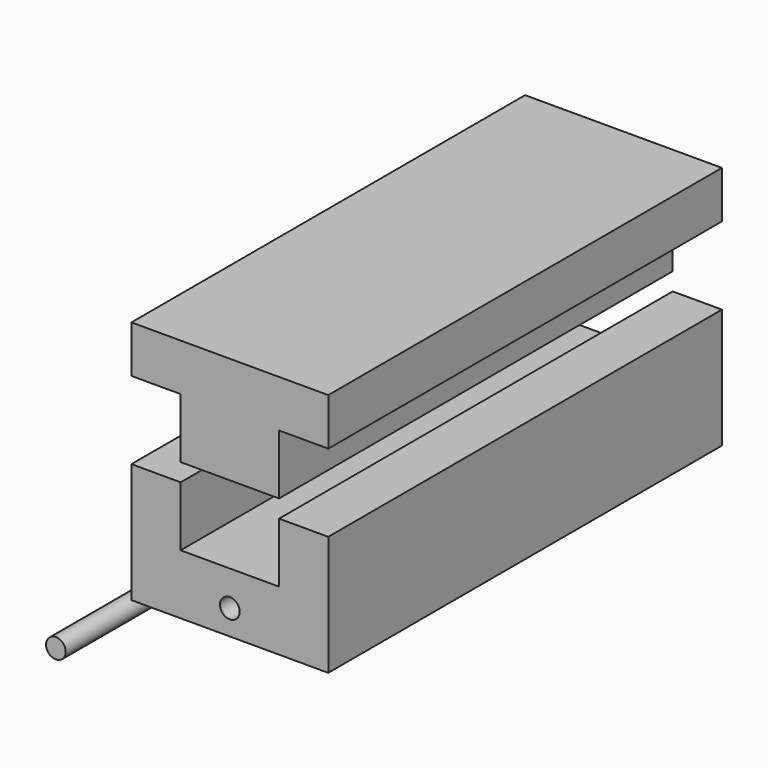
from build123d import *

# Parameters (mm, degrees)
F0_R     = 2.54
F1_DEPTH = 63.5
F2_W     = 25.4
F2_H     = 15.4505290857
F2_H_2   = 9.0087315817
F3_DEPTH = 63.5
F4_R     = 2.54
F5_DEPTH = 63.5


with BuildPart() as f1:
    # F0 (on Front) → F1 (new body, symmetric)
    with BuildSketch(Plane.XZ):
        Polygon((-25.4, 15.4528948274), (-25.4, -15.4528948274), (25.4, -15.4528948274), (25.4, 15.4528948274), (12.7, 15.4528948274), (12.7, 0), (-12.7, 0), (-12.7, 15.4528948274), align=None)
        with Locations((0, -9.0271038935)):
            Circle(F0_R, mode=Mode.SUBTRACT)
    extrude(amount=F1_DEPTH, both=True)


with BuildPart() as f3:
    # F2 (on Front) → F3 (new body, symmetric)
    with BuildSketch(Plane.XZ):
        with Locations((0, 27.7630429332)):
            Rectangle(F2_W, F2_H)
        Polygon((-25.4, 35.488307476), (-12.7, 35.488307476), (-12.7, 44.4970390577), (12.7, 44.4970390577), (12.7, 35.488307476), (25.4, 35.488307476), (25.4, 47.655723989), (-25.4, 47.655723989), align=None)
        with Locations((0, 39.9926732669)):
            Rectangle(F2_W, F2_H_2)
    extrude(amount=F3_DEPTH, both=True)


with BuildPart() as f5:
    # F4 (on Front) → F5 (new body, symmetric)
    with BuildSketch(Plane.XZ):
        with Locations((-44.8904037476, -32.7229835093)):
            Circle(F4_R)
    extrude(amount=F5_DEPTH, both=True)


solid = Compound([f1.part, f3.part, f5.part])
